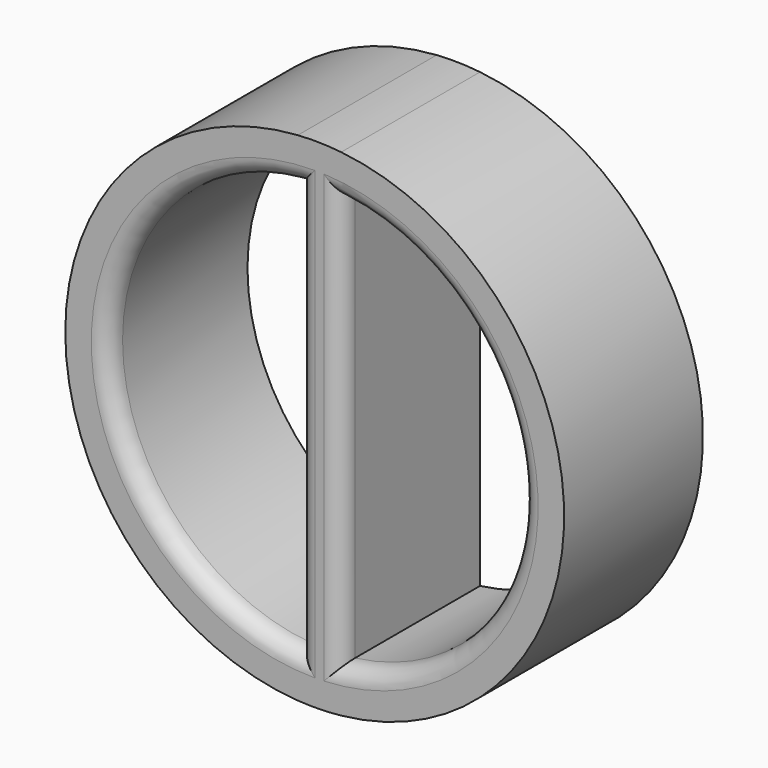
from build123d import *

# Parameters (mm, degrees)
F1_DEPTH = 50.8
F2_R     = 5.08


with BuildPart() as f1:
    # F0 (on Front) → F1 (new body)
    with BuildSketch(Plane.XZ):
        with BuildLine():
            ThreePointArc((-4.942322765, -72.8575601478), (1.4130316555, -73.0113276591), (7.757677235, -72.6117694931))
            Line((7.757677235, -72.6117694931), (-4.942322765, -72.8575601478))
        make_face()
        with BuildLine():
            Line((-4.942322765, 60.1222011464), (-4.942322765, 72.8575601478))
            ThreePointArc((-4.942322765, 72.8575601478), (-73.025, 0), (-4.942322765, -72.8575601478))
            Line((-4.942322765, -72.8575601478), (-4.942322765, -60.1222011464))
            ThreePointArc((-4.942322765, -60.1222011464), (-60.325, 0), (-4.942322765, 60.1222011464))
        make_face()
        with BuildLine():
            ThreePointArc((7.757677235, -72.6117694931), (54.3100129124, -48.8167299443), (73.025, 0))
            ThreePointArc((73.025, 0), (54.3100129124, 48.8167299443), (7.757677235, 72.6117694931))
            Line((7.757677235, 72.6117694931), (7.757677235, 59.8241094285))
            ThreePointArc((7.757677235, 59.8241094285), (45.3160429881, 39.8191144163), (60.325, 0))
            ThreePointArc((60.325, 0), (45.3160429881, -39.8191144163), (7.757677235, -59.8241094285))
            Line((7.757677235, -59.8241094285), (7.757677235, -72.6117694931))
        make_face()
        with BuildLine():
            Line((-4.942322765, -72.8575601478), (7.757677235, -72.6117694931))
            Line((7.757677235, -72.6117694931), (7.757677235, -59.8241094285))
            ThreePointArc((7.757677235, -59.8241094285), (1.4155457838, -60.3083895916), (-4.942322765, -60.1222011464))
            Line((-4.942322765, -60.1222011464), (-4.942322765, -72.8575601478))
        make_face()
        with BuildLine():
            Line((7.757677235, -59.8241094285), (7.757677235, 59.8241094285))
            ThreePointArc((7.757677235, 59.8241094285), (1.4155457838, 60.3083895916), (-4.942322765, 60.1222011464))
            Line((-4.942322765, 60.1222011464), (-4.942322765, -60.1222011464))
            ThreePointArc((-4.942322765, -60.1222011464), (1.4155457838, -60.3083895916), (7.757677235, -59.8241094285))
        make_face()
        with BuildLine():
            Line((7.757677235, 59.8241094285), (7.757677235, 72.6117694931))
            ThreePointArc((7.757677235, 72.6117694931), (1.4130316555, 73.0113276591), (-4.942322765, 72.8575601478))
            Line((-4.942322765, 72.8575601478), (-4.942322765, 60.1222011464))
            ThreePointArc((-4.942322765, 60.1222011464), (1.4155457838, 60.3083895916), (7.757677235, 59.8241094285))
        make_face()
    extrude(amount=F1_DEPTH)

    # F2
    f2_edges = [f1.edges().sort_by_distance(p)[0] for p in [
        (-60.325, -50.8, 0),
        (60.325, -50.8, 0),
        (-4.942323, -50.8, 0),
        (7.757677, -50.8, 0),
    ]]
    fillet(f2_edges, radius=F2_R)


solid = f1.part
